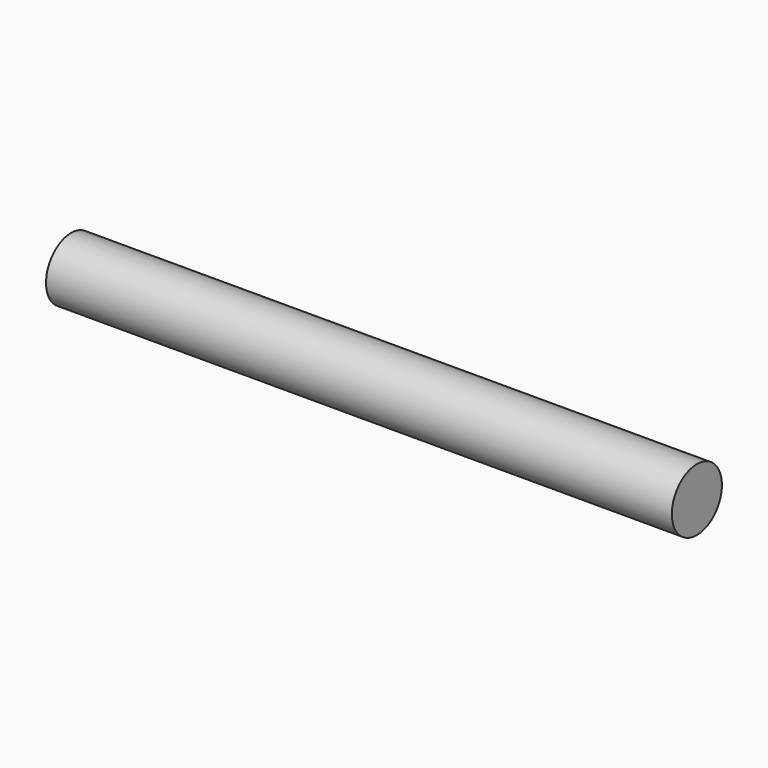
from build123d import *

# Parameters (mm, degrees)
SKETCH_R  = 4
PAD_DEPTH = 40


with BuildPart() as part:
    # Sketch → Pad (new body, symmetric)
    with BuildSketch(Plane.YZ):
        Circle(SKETCH_R)
    extrude(amount=PAD_DEPTH, both=True)


solid = part.part
